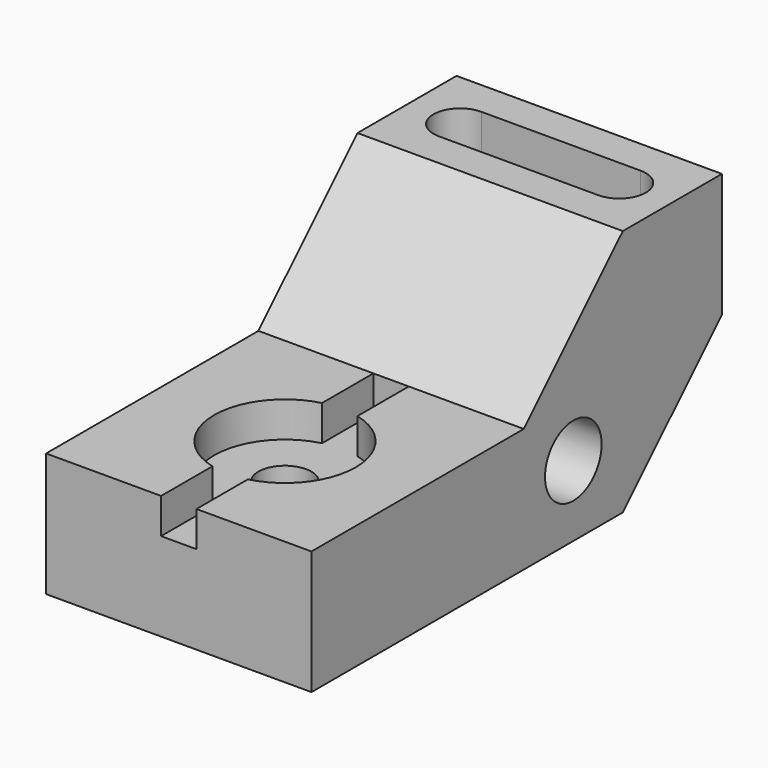
from build123d import *

# Parameters (mm, degrees)
F0_R           = 10.16
F1_DEPTH       = 76.2
F3_DEPTH       = 10.16
F4_D           = 15.24
F4_CBORE_D     = 40.64
F4_CBORE_DEPTH = 10.16
F6_DEPTH       = 27.94


with BuildPart() as f1:
    # F0 (on Right) → F1 (new body)
    with BuildSketch(Plane.YZ):
        Polygon((0, 35.56), (0, 0), (111.76, 0), (147.32, 35.56), (147.32, 71.12), (111.76, 71.12), (76.2, 35.56), align=None)
        with Locations((93.98, 20.32)):
            Circle(F0_R, mode=Mode.SUBTRACT)
    extrude(amount=F1_DEPTH)

    # F2 (on face) → F3 (cut)
    with BuildSketch(Plane.XY.offset(35.56)):
        with BuildLine():
            Line((43.18, 0), (43.18, 18.425245))
            ThreePointArc((43.18, 18.425245), (38.1, 17.78), (33.02, 18.425245))
            Line((33.02, 18.425245), (33.02, 0))
            Line((33.02, 0), (38.1, 0))
            Line((38.1, 0), (43.18, 0))
        make_face()
        with BuildLine():
            ThreePointArc((33.02, 57.774755), (38.1, 58.42), (43.18, 57.774755))
            Line((43.18, 57.774755), (43.18, 76.2))
            Line((43.18, 76.2), (33.02, 76.2))
            Line((33.02, 76.2), (33.02, 57.774755))
        make_face()
    extrude(amount=-F3_DEPTH, mode=Mode.SUBTRACT)

    # F4 (through all)
    with Locations(Plane.XY.offset(35.56)):
        with Locations((38.1, 38.1)):
            CounterBoreHole(F4_D / 2, F4_CBORE_D / 2, F4_CBORE_DEPTH)

    # F5 (on face) → F6 (cut)
    with BuildSketch(Plane.XY.offset(71.12)):
        with BuildLine():
            Line((60.96, 137.16), (15.24, 137.16))
            ThreePointArc((15.24, 137.16), (7.62, 129.54), (15.24, 121.92))
            Line((15.24, 121.92), (60.96, 121.92))
            ThreePointArc((60.96, 121.92), (68.58, 129.54), (60.96, 137.16))
        make_face()
    extrude(amount=-F6_DEPTH, mode=Mode.SUBTRACT)


solid = f1.part
